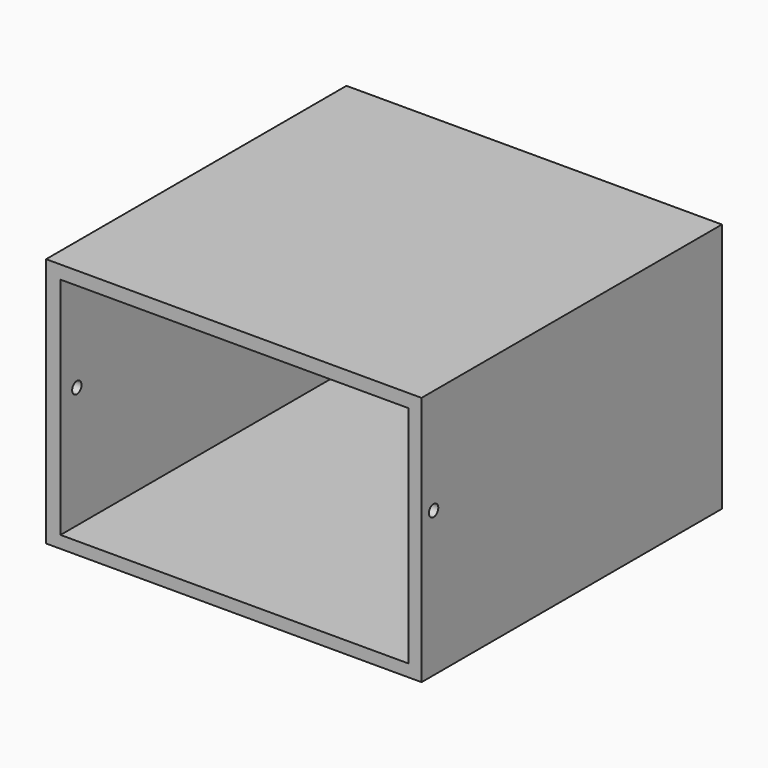
from build123d import *

# Parameters (mm, degrees)
F0_W     = 76.2
F0_H     = 50.8
F1_DEPTH = 76.2
F2_W     = 70.673531
F2_H     = 45.6187
F3_DEPTH = 73.66
F4_R     = 1.188215
F5_DEPTH = 5.08
F6_R     = 1.1938
F7_DEPTH = 5.08


with BuildPart() as f1:
    # F0 (on Front) → F1 (new body)
    with BuildSketch(Plane.XZ):
        with Locations((-38.1, 25.4)):
            Rectangle(F0_W, F0_H)
    extrude(amount=F1_DEPTH)

    # F2 (on face) → F3 (cut)
    with BuildSketch(Plane.XZ.offset(76.2)):
        with Locations((-37.936796, 25.291196)):
            Rectangle(F2_W, F2_H)
    extrude(amount=-F3_DEPTH, mode=Mode.SUBTRACT)

    # F4 (on face) → F5 (cut)
    with BuildSketch(Plane(origin=(-76.2, 0, 0), x_dir=(0, -1, 0), z_dir=(-1, 0, 0))):
        with Locations((72.051063, 27.127683)):
            Circle(F4_R)
    extrude(amount=-F5_DEPTH, mode=Mode.SUBTRACT)

    # F6 (on face) → F7 (cut)
    with BuildSketch(Plane.YZ):
        with Locations((-73.146977, 29.433548)):
            Circle(F6_R)
    extrude(amount=-F7_DEPTH, mode=Mode.SUBTRACT)


solid = f1.part
